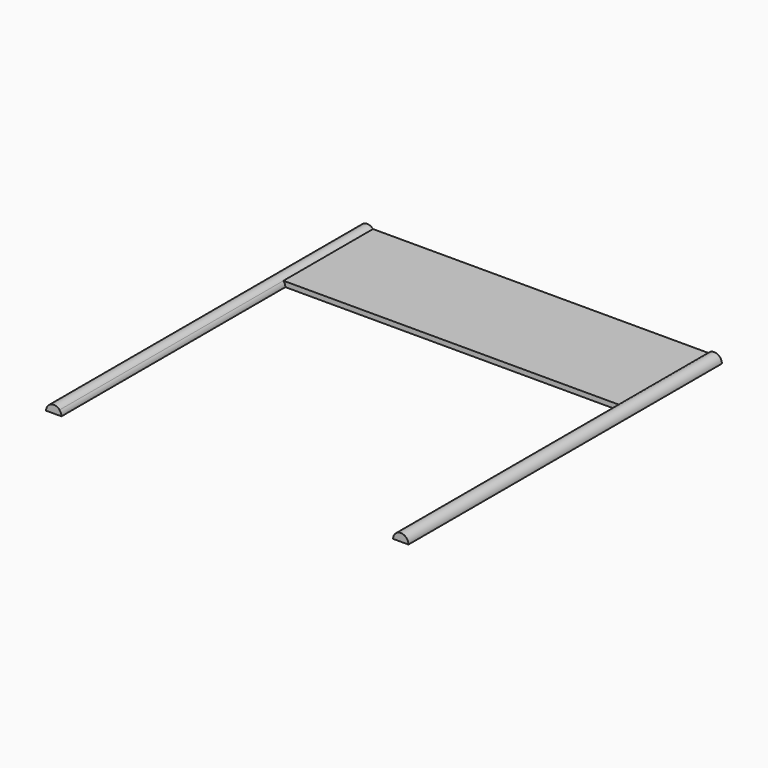
from build123d import *

# Parameters (mm, degrees)
F0_W          = 62
F0_H          = 20
F1_DEPTH      = 0.9
F3_DEPTH      = 50
F3_DEPTH_BACK = 20


with BuildPart() as f1:
    # F0 (on Top) → F1 (new body)
    with BuildSketch(Plane.XY):
        Rectangle(F0_W, F0_H)
    extrude(amount=F1_DEPTH)

    # F2 (on face) → F3 (join, two sides)
    with BuildSketch(Plane.XZ.offset(10)) as f3_sk:
        with BuildLine():
            ThreePointArc((-29.963264, 0.9), (-31.480364, 1.286107), (-32.372888, 0))
            Line((-32.372888, 0), (-31, 0))
            Line((-31, 0), (-31, 0.9))
            Line((-31, 0.9), (-29.963264, 0.9))
        make_face()
        with BuildLine():
            ThreePointArc((-29.627112, 0), (-29.713893, 0.480364), (-29.963264, 0.9))
            Line((-29.963264, 0.9), (-31, 0.9))
            Line((-31, 0.9), (-31, 0))
            Line((-31, 0), (-29.627112, 0))
        make_face()
        with BuildLine():
            ThreePointArc((32.372888, 0), (31.480364, 1.286107), (29.963264, 0.9))
            Line((29.963264, 0.9), (31, 0.9))
            Line((31, 0.9), (31, 0))
            Line((31, 0), (32.372888, 0))
        make_face()
        with BuildLine():
            Line((31, 0.9), (29.963264, 0.9))
            ThreePointArc((29.963264, 0.9), (29.713893, 0.480364), (29.627112, 0))
            Line((29.627112, 0), (31, 0))
            Line((31, 0), (31, 0.9))
        make_face()
    extrude(amount=F3_DEPTH)
    extrude(f3_sk.sketch, amount=-F3_DEPTH_BACK)


solid = f1.part
